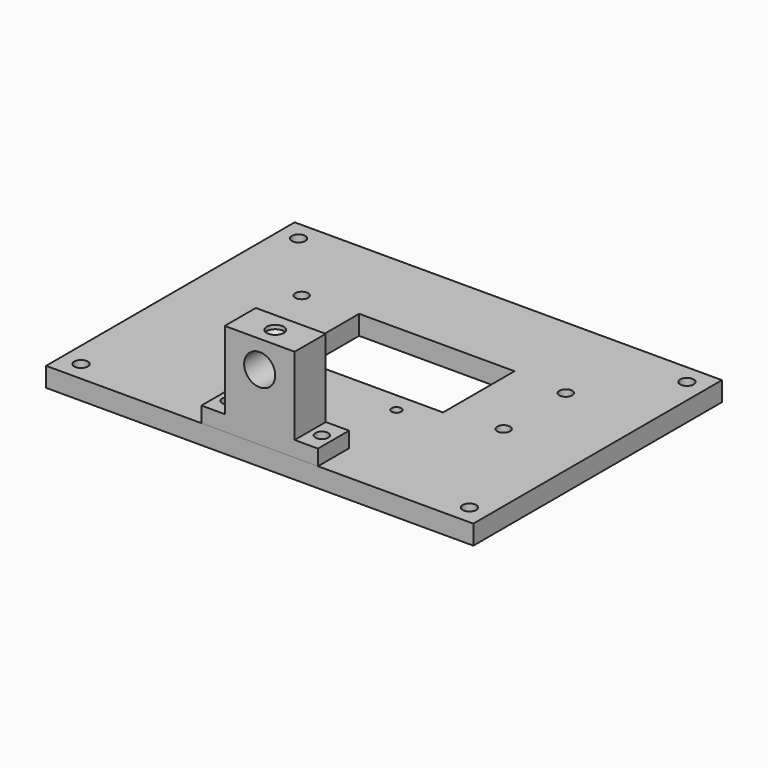
from build123d import *

# Parameters (mm, degrees)
F0_W      = 110
F0_H      = 80
F1_DEPTH  = 5
F2_W      = 40
F2_H      = 23
F3_DEPTH  = 5.001
F5_D      = 2.5
F6_D      = 3.3
F8_D      = 3.5
F9_W      = 30
F9_H      = 10
F10_DEPTH = 24
F11_W     = 6
F11_H     = 20
F12_DEPTH = 80.001
F13_D     = 3.3
F14_D     = 8
F16_D     = 1.5
F16_DEPTH = 7.5
F16_TIP   = 0.4506454643
F17_D     = 4.4
F17_DEPTH = 1
F17_TIP   = 1.3218933619


with BuildPart() as f1:
    # F0 (on Top) → F1 (new body)
    with BuildSketch(Plane.XY):
        with Locations((0, 40)):
            Rectangle(F0_W, F0_H)
    extrude(amount=-F1_DEPTH)

    # F2 (on face) → F3 (cut, through all)
    with BuildSketch(Plane.XY):
        with Locations((0, 45.5)):
            Rectangle(F2_W, F2_H)
    extrude(amount=-F3_DEPTH, mode=Mode.SUBTRACT)

    # F5 (through all)
    with Locations(Plane.XY):
        with Locations((-12, 5), (12, 5), (12, 29), (-12, 29)):
            Hole(F5_D / 2)

    # F6 (through all)
    with Locations(Plane.XY):
        with Locations((-34, 36), (34, 36), (34, 56), (-34, 56)):
            Hole(F6_D / 2)

    # F8 (through all)
    with Locations(Plane.XY):
        with Locations((-50, 5), (50, 5), (50, 75), (-50, 75)):
            Hole(F8_D / 2)


with BuildPart() as f10:
    # F9 (on face) → F10 (new body)
    with BuildSketch(Plane.XY):
        with Locations((0, 5)):
            Rectangle(F9_W, F9_H)
    extrude(amount=F10_DEPTH)

    # F11 (on face) → F12 (cut, through all)
    with BuildSketch(Plane.XZ):
        with Locations((12, 14)):
            Rectangle(F11_W, F11_H)
        with Locations((-12, 14)):
            Rectangle(F11_W, F11_H)
    extrude(amount=-F12_DEPTH, mode=Mode.SUBTRACT)

    # F13 (through all)
    with Locations(Plane(origin=(0, 0, 0), x_dir=(1, 0, 0), z_dir=(0, 0, -1))):
        with Locations((-12, -5), (12, -5)):
            Hole(F13_D / 2)

    # F14 (through all)
    with Locations(Plane.XZ):
        with Locations((0, 17)):
            Hole(F14_D / 2)

    # F16
    with Locations(Plane.XY.offset(24)):
        with Locations((0, 5)):
            Hole(F16_D / 2, depth=F16_DEPTH)
            with Locations((0, 0, -(F16_DEPTH + F16_TIP / 2))):  # 118° drill point
                Cone(0, F16_D / 2, F16_TIP, mode=Mode.SUBTRACT)

    # F17
    with Locations(Plane.XY.offset(24)):
        with Locations((0, 5)):
            Hole(F17_D / 2, depth=F17_DEPTH)
            with Locations((0, 0, -(F17_DEPTH + F17_TIP / 2))):  # 118° drill point
                Cone(0, F17_D / 2, F17_TIP, mode=Mode.SUBTRACT)


solid = Compound([f1.part, f10.part])
